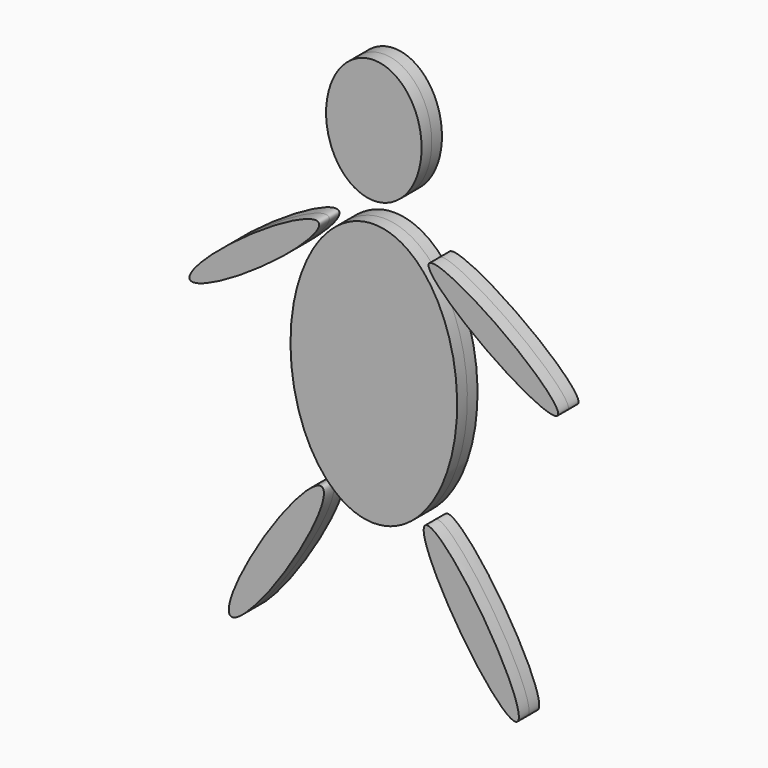
from build123d import *

# Parameters (mm, degrees)
F1_DEPTH = 3.175
F3_DEPTH = 3.175
F5_DEPTH = 3.175
F7_DEPTH = 3.175


with BuildPart() as f1:
    # F0 (on Front) → F1 (new body, symmetric)
    with BuildSketch(Plane.XZ):
        with BuildLine():
            add(Edge.make_bspline(
                [(0, 37.986356765), (20.634889225, 37.986356765), (10.3174446125, 61.1644703895), (0, 84.3425840139), (-10.3174446125, 61.1644703895), (-20.634889225, 37.986356765), (0, 37.986356765)],
                knots=[0, 0, 0, 2.0943951024, 2.0943951024, 4.1887902048, 4.1887902048, 6.2831853072, 6.2831853072, 6.2831853072], degree=2, weights=[1, 0.5, 1, 0.5, 1, 0.5, 1]))
        make_face()
    extrude(amount=F1_DEPTH, both=True)


with BuildPart() as f3:
    # F2 (on Front) → F3 (new body, symmetric)
    with BuildSketch(Plane.XZ):
        with BuildLine():
            add(Edge.make_bspline(
                [(0, 32.8356660903), (-36.0195986907, 32.8356660903), (-18.0097993454, -16.4178330451), (0, -65.6713321805), (18.0097993454, -16.4178330451), (36.0195986907, 32.8356660902), (0, 32.8356660903)],
                knots=[0, 0, 0, 2.0943951024, 2.0943951024, 4.1887902048, 4.1887902048, 6.2831853072, 6.2831853072, 6.2831853072], degree=2, weights=[1, 0.5, 1, 0.5, 1, 0.5, 1]))
        make_face()
    extrude(amount=F3_DEPTH, both=True)


with BuildPart() as f5:
    # F4 (on Front) → F5 (new body, symmetric)
    with BuildSketch(Plane.XZ):
        with BuildLine():
            add(Edge.make_bspline(
                [(45.8874590695, 5.7359286584), (49.2354977035, 10.4231823927), (23.4705671248, 25.2873505811), (-2.294363454, 40.1515187696), (20.1225284907, 20.6000968468), (42.5394204354, 1.0486749241), (45.8874590695, 5.7359286584)],
                knots=[0, 0, 0, 2.0943951024, 2.0943951024, 4.1887902048, 4.1887902048, 6.2831853072, 6.2831853072, 6.2831853072], degree=2, weights=[1, 0.5, 1, 0.5, 1, 0.5, 1]))
        make_face()
    extrude(amount=F5_DEPTH, both=True)


with BuildPart() as f7:
    # F6 (on Front) → F7 (new body, symmetric)
    with BuildSketch(Plane.XZ):
        with BuildLine():
            add(Edge.make_bspline(
                [(35.7447247952, -64.8392736912), (41.2983532583, -61.2875353789), (21.3765432852, -36.2548595417), (1.4547333121, -11.2221837044), (15.8229148222, -39.8065978539), (30.1910963322, -68.3910120034), (35.7447247952, -64.8392736912)],
                knots=[0, 0, 0, 2.0943951024, 2.0943951024, 4.1887902048, 4.1887902048, 6.2831853072, 6.2831853072, 6.2831853072], degree=2, weights=[1, 0.5, 1, 0.5, 1, 0.5, 1]))
        make_face()
    extrude(amount=F7_DEPTH, both=True)


with BuildPart() as f8_1:
    # F8: instance of F5
    add(f5.part.mirror(Plane.YZ))


with BuildPart() as f8_2:
    # F8: instance of F7
    add(f7.part.mirror(Plane.YZ))


solid = Compound([f1.part, f3.part, f5.part, f7.part, f8_1.part, f8_2.part])
